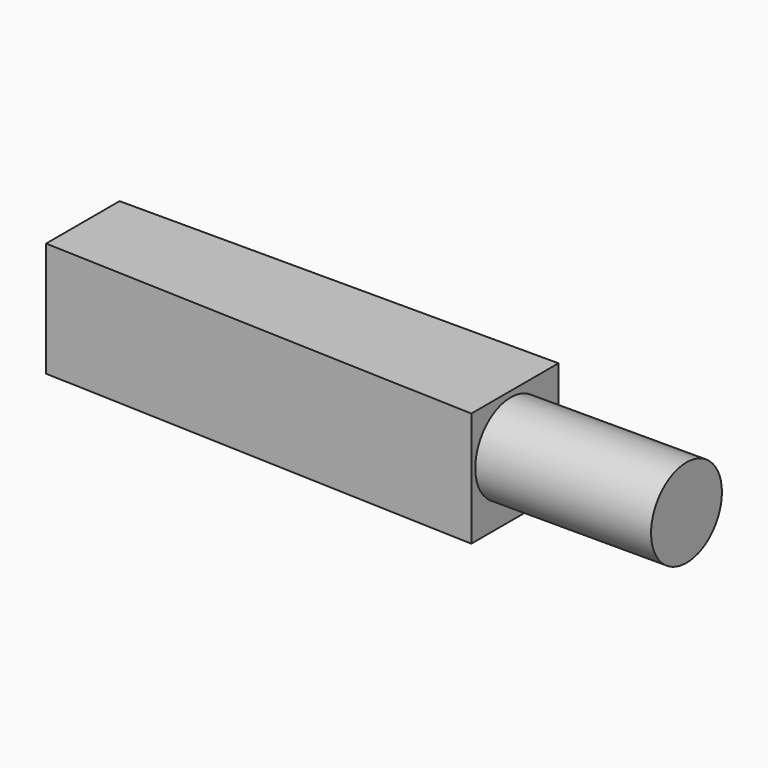
from build123d import *

# Parameters (mm, degrees)
F1_DEPTH = 40.386
F2_R     = 15.605309
F3_DEPTH = 61.976


with BuildPart() as f1:
    # F0 (on Top) → F1 (new body)
    with BuildSketch(Plane.XY):
        Polygon((78.89688, 0), (-75.812049, 0), (-75.812049, -32.37997), (78.89688, -38.405467), align=None)
    extrude(amount=F1_DEPTH)

    # F2 (on face) → F3 (join)
    with BuildSketch(Plane.YZ.offset(78.89688)):
        with Locations((-21.061413, 22.759276)):
            Circle(F2_R)
    extrude(amount=F3_DEPTH)


solid = f1.part
